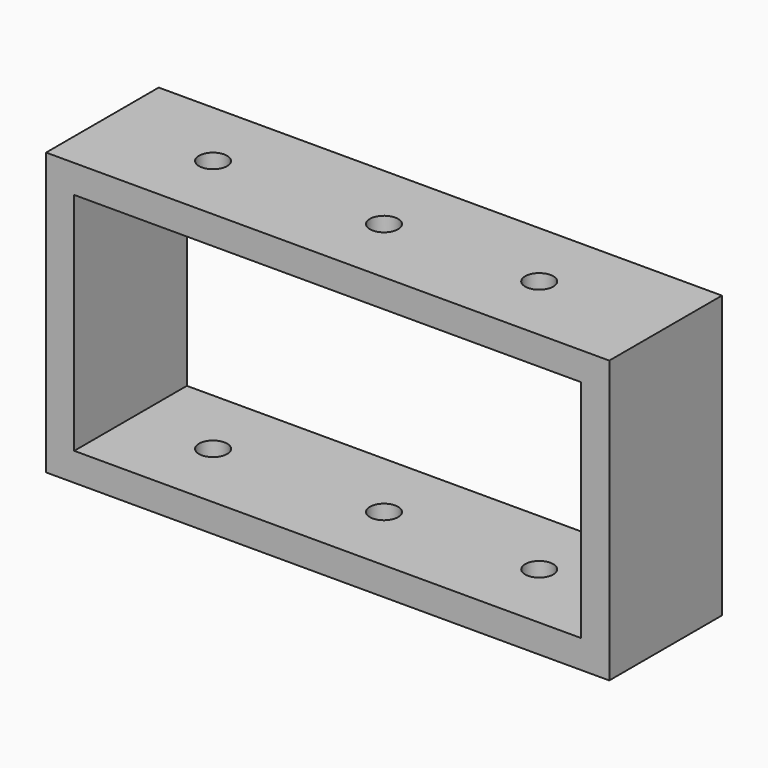
from build123d import *

# Parameters (mm, degrees)
F0_W     = 100
F0_H     = 50
F0_W_2   = 90
F0_H_2   = 40
F1_DEPTH = 25
F2_R     = 2.5
F3_DEPTH = 50.001


with BuildPart() as f1:
    # F0 (on Front) → F1 (new body)
    with BuildSketch(Plane.XZ):
        Rectangle(F0_W, F0_H)
        Rectangle(F0_W_2, F0_H_2, mode=Mode.SUBTRACT)
    extrude(amount=F1_DEPTH)

    # F2 (on face) → F3 (cut, through all)
    with BuildSketch(Plane(origin=(0, 0, -25), x_dir=(1, 0, 0), z_dir=(0, 0, -1))):
        with Locations((0, 12.5)):
            Circle(F2_R)
        with Locations((-30.352624, 12.5)):
            Circle(F2_R)
        with Locations((27.56159, 12.5)):
            Circle(F2_R)
    extrude(amount=-F3_DEPTH, mode=Mode.SUBTRACT)


solid = f1.part
